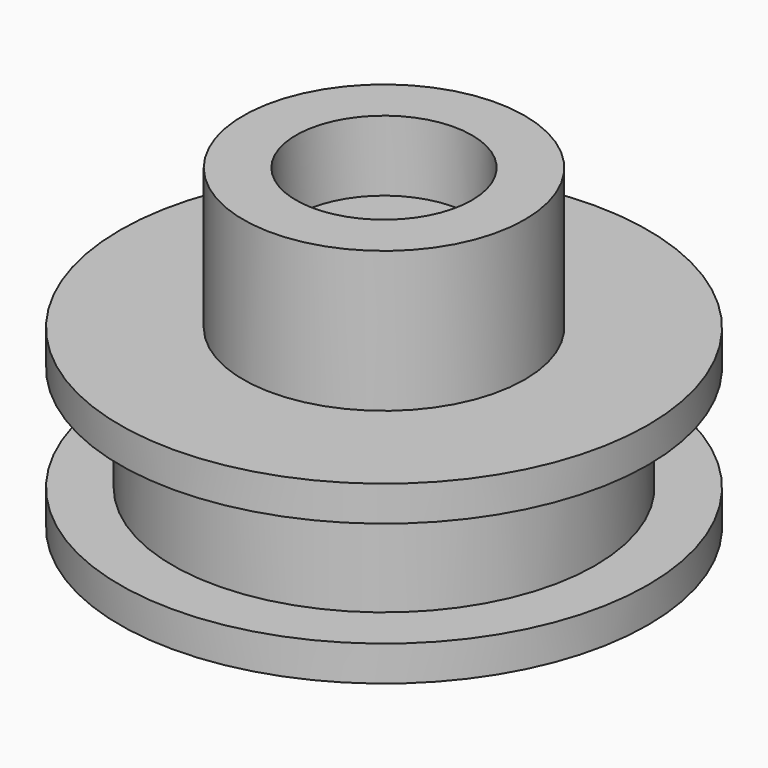
from build123d import *

# Parameters (mm, degrees)
F0_R      = 7.5
F1_DEPTH  = 1
F2_R      = 6
F3_DEPTH  = 3
F4_R      = 7.5
F4_R_2    = 6
F5_DEPTH  = 1
F7_R      = 4
F8_DEPTH  = 4
F9_R      = 2.5
F10_DEPTH = 2
F11_R     = 4
F12_DEPTH = 1


with BuildPart() as f1:
    # F0 (on Top) → F1 (new body)
    with BuildSketch(Plane.XY):
        Circle(F0_R)
    extrude(amount=F1_DEPTH)

    # F2 (on face) → F3 (join)
    with BuildSketch(Plane.XY.offset(1)):
        Circle(F2_R)
    extrude(amount=F3_DEPTH)

    # F4 (on face) → F5 (join)
    with BuildSketch(Plane.XY.offset(4)):
        Circle(F4_R)
        Circle(F4_R_2, mode=Mode.SUBTRACT)
        Circle(F4_R_2)
    extrude(amount=F5_DEPTH)

    # F7 (on face) → F8 (join)
    with BuildSketch(Plane.XY.offset(5)):
        Circle(F7_R)
    extrude(amount=F8_DEPTH)

    # F9 (on face) → F10 (cut)
    with BuildSketch(Plane.XY.offset(9)):
        Circle(F9_R)
    extrude(amount=-F10_DEPTH, mode=Mode.SUBTRACT)

    # F11 (on face) → F12 (cut)
    with BuildSketch(Plane(origin=(0, 0, 0), x_dir=(1, 0, 0), z_dir=(0, 0, -1))):
        Circle(F11_R)
    extrude(amount=-F12_DEPTH, mode=Mode.SUBTRACT)


solid = f1.part
